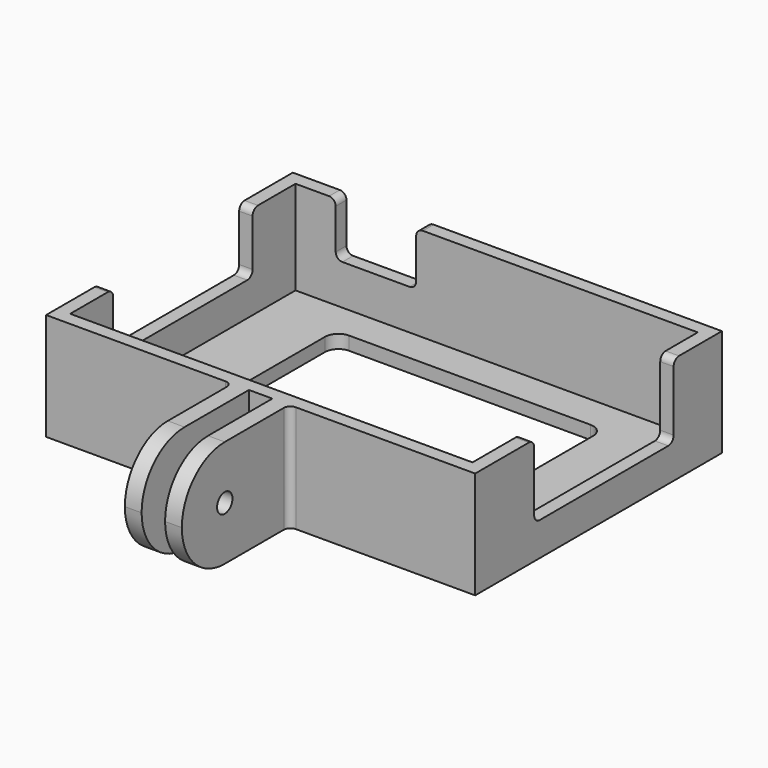
from build123d import *

# Parameters (mm, degrees)
F0_W      = 64
F0_H      = 46
F1_DEPTH  = 16
F2_W      = 60
F2_H      = 42
F3_DEPTH  = 14
F4_W      = 40
F4_H      = 27
F5_DEPTH  = 25
F6_R      = 2
F7_W      = 2.5
F7_H      = 16
F8_DEPTH  = 20
F9_R      = 1.4317723001
F10_DEPTH = 25
F11_W     = 26
F11_H     = 11
F12_DEPTH = 25
F13_W     = 26
F13_H     = 9
F14_DEPTH = 25
F15_W     = 12
F15_H     = 8
F16_DEPTH = 25
F17_R     = 1


with BuildPart() as f1:
    # F0 (on Top) → F1 (new body)
    with BuildSketch(Plane.XY):
        with Locations((7.1285768165, 0.5159020871)):
            Rectangle(F0_W, F0_H)
    extrude(amount=F1_DEPTH)

    # F2 (on face) → F3 (cut)
    with BuildSketch(Plane.XY.offset(16)):
        with Locations((7.1285768165, 0.5159020871)):
            Rectangle(F2_W, F2_H)
    extrude(amount=-F3_DEPTH, mode=Mode.SUBTRACT)

    # F4 (on face) → F5 (cut)
    with BuildSketch(Plane.XY.offset(2)):
        with Locations((7.1285768165, 3.0159020871)):
            Rectangle(F4_W, F4_H)
    extrude(amount=-F5_DEPTH, mode=Mode.SUBTRACT)

    # F6
    f6_edges = [f1.edges().sort_by_distance(p)[0] for p in [
        (-12.871423, 16.515902, 1),
        (-12.871423, -10.484098, 1),
        (27.128577, -10.484098, 1),
        (27.128577, 16.515902, 1),
    ]]
    fillet(f6_edges, radius=F6_R)

    # F7 (on face) → F8 (join)
    with BuildSketch(Plane.XZ.offset(22.4840979129)):
        with Locations((4.1285768165, 8)):
            Rectangle(F7_W, F7_H)
        with Locations((10.1285768165, 8)):
            Rectangle(F7_W, F7_H)
    extrude(amount=F8_DEPTH)

    # F9 (on face) → F10 (cut)
    with BuildSketch(Plane(origin=(2.8785768165, 0, 0), x_dir=(0, -1, 0), z_dir=(-1, 0, 0))):
        with Locations((34.4840979129, 8)):
            Circle(F9_R)
        with BuildLine():
            ThreePointArc((34.4840979129, 16), (40.1409521624, 13.6568542495), (42.4840979129, 8))
            Line((42.4840979129, 8), (42.4840979129, 16))
            Line((42.4840979129, 16), (34.4840979129, 16))
        make_face()
        with BuildLine():
            Line((42.4840979129, 0), (42.4840979129, 8))
            ThreePointArc((42.4840979129, 8), (40.1409521624, 2.3431457505), (34.4840979129, 0))
            Line((34.4840979129, 0), (42.4840979129, 0))
        make_face()
    extrude(amount=-F10_DEPTH, mode=Mode.SUBTRACT)

    # F11 (on face) → F12 (cut)
    with BuildSketch(Plane.YZ.offset(39.1285768165)):
        with Locations((1.5159020871, 10.5)):
            Rectangle(F11_W, F11_H)
    extrude(amount=-F12_DEPTH, mode=Mode.SUBTRACT)

    # F13 (on face) → F14 (cut)
    with BuildSketch(Plane(origin=(-24.8714231835, 0, 0), x_dir=(0, -1, 0), z_dir=(-1, 0, 0))):
        with Locations((-0.5159020871, 11.5)):
            Rectangle(F13_W, F13_H)
    extrude(amount=-F14_DEPTH, mode=Mode.SUBTRACT)

    # F15 (on face) → F16 (cut)
    with BuildSketch(Plane(origin=(0, 23.5159020871, 0), x_dir=(-1, 0, 0), z_dir=(0, 1, 0))):
        with Locations((10.8714231835, 12)):
            Rectangle(F15_W, F15_H)
    extrude(amount=-F16_DEPTH, mode=Mode.SUBTRACT)

    # F17
    f17_edges = [f1.edges().sort_by_distance(p)[0] for p in [
        (-23.871423, 13.515902, 16),
        (-23.871423, -12.484098, 16),
        (38.128577, 14.515902, 16),
        (38.128577, -11.484098, 16),
        (-23.871423, 13.515902, 7),
        (38.128577, 14.515902, 5),
        (-23.871423, -12.484098, 7),
        (38.128577, -11.484098, 5),
        (-4.871423, 22.515902, 16),
        (-16.871423, 22.515902, 16),
        (-4.871423, 22.515902, 8),
        (-16.871423, 22.515902, 8),
        (2.878577, -22.484098, 8),
        (11.378577, -22.484098, 8),
    ]]
    fillet(f17_edges, radius=F17_R)


solid = f1.part
